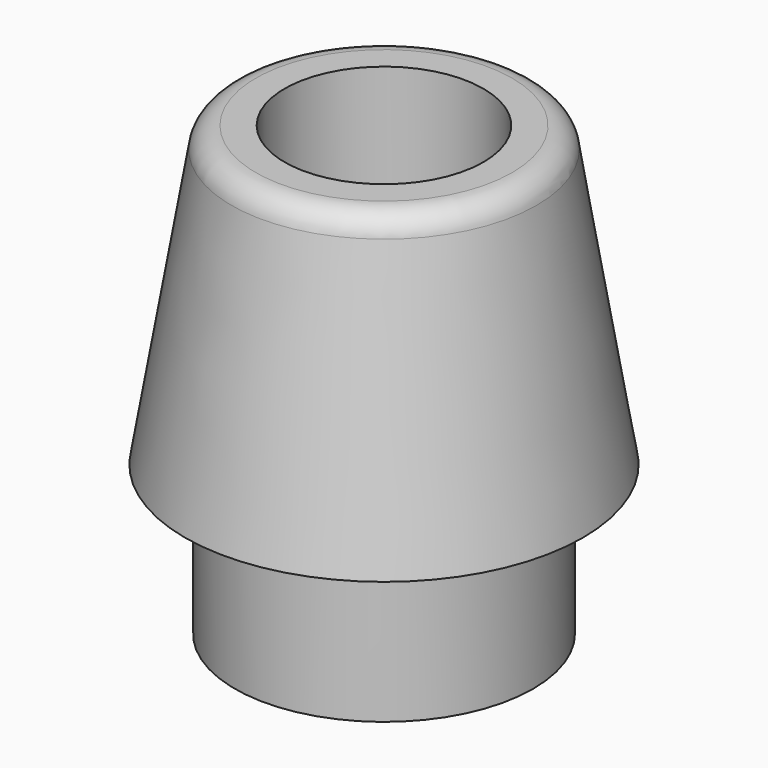
from build123d import *

# Parameters (mm, degrees)
F0_W     = 1.5
F0_H     = 1.5
F2_R     = 1
F3_DEPTH = 25
F4_R     = 0.25


with BuildPart() as f1:
    # F0 (on Front) → F1 (revolve)
    with BuildSketch(Plane.XZ):
        Polygon((0, 3), (0, 0), (1.5, 0), (2, 0), (1.5, 3), align=None)
        with Locations((0.75, -0.75)):
            Rectangle(F0_W, F0_H)
    revolve(axis=Axis((0, 0, 1.5), (0, 0, -1)))

    # F2 (on face) → F3 (cut)
    with BuildSketch(Plane.XY.offset(3)):
        Circle(F2_R)
    extrude(amount=-F3_DEPTH, mode=Mode.SUBTRACT)

    # F4
    f4_edges = [f1.edges().sort_by_distance(p)[0] for p in [
        (-1.5, 0, 3),
    ]]
    fillet(f4_edges, radius=F4_R)


solid = f1.part
